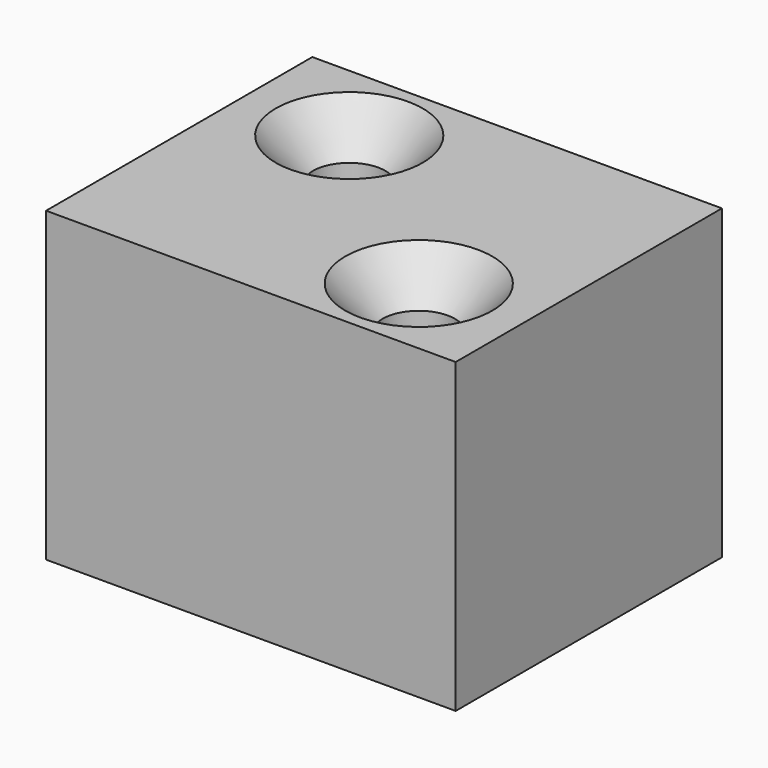
from build123d import *

# Parameters (mm, degrees)
F0_W           = 25.4
F0_H           = 20.6375
F1_DEPTH       = 19.05
F4_D           = 4.4958
F4_CSINK_D     = 9.1186
F4_CSINK_ANGLE = 82


with BuildPart() as f1:
    # F0 (on Top) → F1 (new body)
    with BuildSketch(Plane.XY):
        with Locations((12.7, -10.31875)):
            Rectangle(F0_W, F0_H)
    extrude(amount=F1_DEPTH)

    # F4 (through all)
    with Locations(Plane.XY.offset(19.05)):
        with Locations((6.5395951241, -5.3134210383), (18.8604048759, -15.3240789617)):
            CounterSinkHole(F4_D / 2, F4_CSINK_D / 2, counter_sink_angle=F4_CSINK_ANGLE)


solid = f1.part
